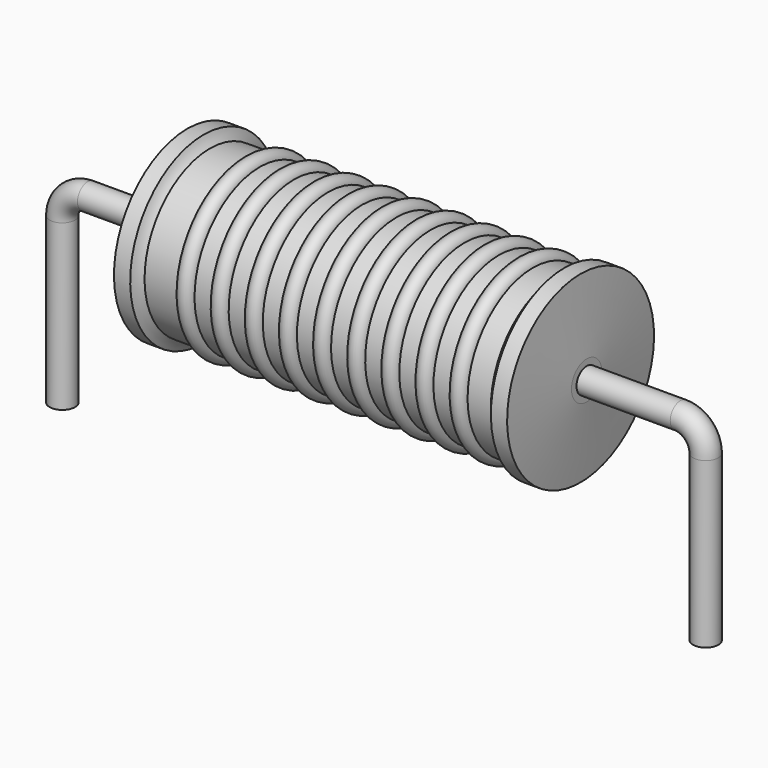
from build123d import *

# Parameters (mm, degrees)
SKETCH_R = 0.4


with BuildPart() as revolution:
    # Sketch002 → Revolution (revolve)
    with BuildSketch(Plane.XZ):
        with BuildLine():
            Line((3.952, 5.9), (4.464, 5.9))
            ThreePointArc((4.464, 5.9), (4.545878, 5.729406), (4.662, 5.58))
            Line((4.662, 5.58), (15.6, 5.58))
            ThreePointArc((15.6, 5.58), (15.74449, 5.726808), (15.856, 5.9))
            Line((15.856, 5.9), (16.368, 5.9))
            ThreePointArc((16.56, 3.6), (16.466011, 4.750168), (16.368, 5.9))
            Line((16.56, 3), (16.56, 3.6))
            Line((3.76, 3), (16.56, 3))
            Line((3.76, 3), (3.76, 3.6))
            ThreePointArc((3.952, 5.9), (3.853989, 4.750168), (3.76, 3.6))
        make_face()
    revolve(axis=Axis((3.76, 0, 3), (1, 0, 0)))


with BuildPart() as sweep_body:
    # Sweep: sweep along a path in Sketch001
    with BuildLine(Plane.XZ) as sweep_path:
        Line((0, -3), (0, 2.2))
        ThreePointArc((0, 2.2), (0.234312, 2.765683), (0.799992, 3))
        Line((0.799992, 3), (19.52, 3))
        ThreePointArc((19.52, 3), (20.085685, 2.765685), (20.32, 2.2))
        Line((20.32, 2.2), (20.32, -3))
    # Sketch → Sweep (sweep)
    with BuildSketch(Plane.XY.offset(-2)):
        Circle(SKETCH_R)
    sweep(path=sweep_path.line)


with BuildPart() as revolution001:
    # Sketch003 → Revolution001 (revolve)
    with BuildSketch(Plane.XZ):
        with BuildLine():
            ThreePointArc((6.245895, 5.5288), (5.976421, 5.798274), (5.706947, 5.5288))
            Line((5.168, 5.5288), (5.706947, 5.5288))
            Line((5.168, 5.5288), (5.168, 4.9488))
            Line((5.168, 4.9488), (15.408, 4.9488))
            Line((15.408, 4.9488), (15.408, 5.5288))
            Line((14.869053, 5.5288), (15.408, 5.5288))
            ThreePointArc((14.869053, 5.5288), (14.599579, 5.798274), (14.330105, 5.5288))
            Line((13.791158, 5.5288), (14.330105, 5.5288))
            ThreePointArc((13.791158, 5.5288), (13.521684, 5.798274), (13.252211, 5.5288))
            Line((12.713263, 5.5288), (13.252211, 5.5288))
            ThreePointArc((12.713263, 5.5288), (12.443789, 5.798274), (12.174316, 5.5288))
            Line((11.635368, 5.5288), (12.174316, 5.5288))
            ThreePointArc((11.635368, 5.5288), (11.365895, 5.798274), (11.096421, 5.5288))
            Line((10.557474, 5.5288), (11.096421, 5.5288))
            ThreePointArc((10.557474, 5.5288), (10.288, 5.798274), (10.018526, 5.5288))
            Line((9.479579, 5.5288), (10.018526, 5.5288))
            ThreePointArc((9.479579, 5.5288), (9.210105, 5.798274), (8.940632, 5.5288))
            Line((8.401684, 5.5288), (8.940632, 5.5288))
            ThreePointArc((8.401684, 5.5288), (8.132211, 5.798274), (7.862737, 5.5288))
            Line((7.323789, 5.5288), (7.862737, 5.5288))
            ThreePointArc((7.323789, 5.5288), (7.054316, 5.798274), (6.784842, 5.5288))
            Line((6.245895, 5.5288), (6.784842, 5.5288))
        make_face()
    revolve(axis=Axis((4.08, 0, 3), (1, 0, 0)))


solid = Compound([revolution.part, sweep_body.part, revolution001.part])
